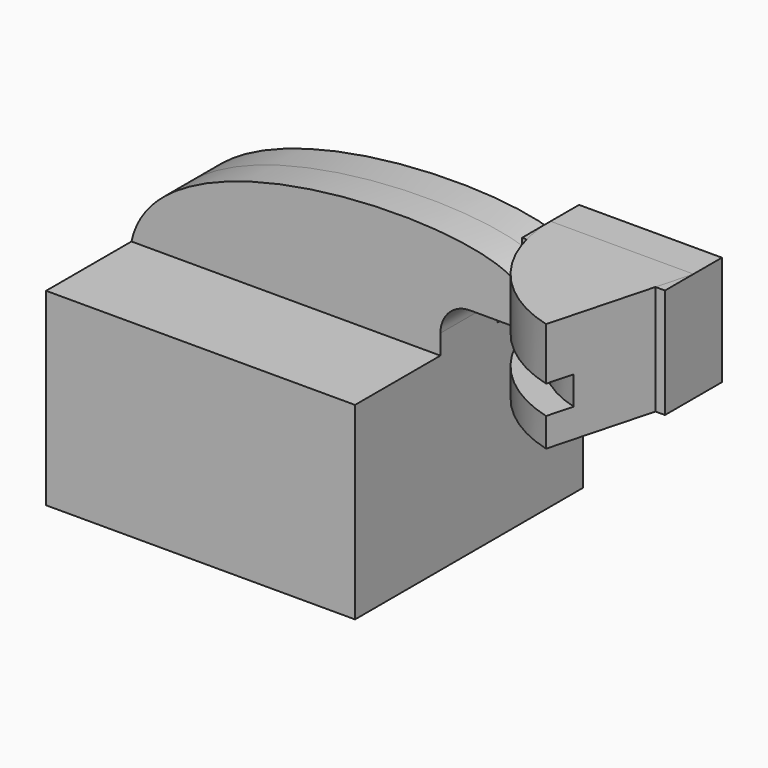
from build123d import *

# Parameters (mm, degrees)
F1_DEPTH = 50.8
F2_DEPTH = 12.7
F3_ANGLE = 75


with BuildPart() as f1:
    # F0 (on Front) → F1 (new body, symmetric)
    with BuildSketch(Plane.XZ):
        Polygon((44.971988, 33.697547), (-55.131988, 33.697547), (-55.131988, -33.697547), (55.131988, -33.697547), (55.131988, 33.697547), align=None)
    extrude(amount=F1_DEPTH, both=True)

    # F0 (on Front) → F2 (join, symmetric)
    with BuildSketch(Plane.XZ):
        Polygon((84.278196, 80.2169), (84.278196, 61.513367), (93.839183, 61.513367), (93.839183, 51.353367), (84.278196, 51.353367), (84.278196, 41.083422), (135.270059, 41.083422), (135.270059, 80.2169), align=None)
        with BuildLine():
            Line((44.971988, 40.750895), (44.971988, 33.697547))
            Line((44.971988, 33.697547), (55.131988, 33.697547))
            Line((55.131988, 33.697547), (55.131988, 40.750895))
            ThreePointArc((55.131988, 40.750895), (58.23738, 48.247975), (65.73446, 51.353367))
            Line((65.73446, 51.353367), (84.278196, 51.353367))
            Line((84.278196, 51.353367), (84.278196, 61.513367))
            Line((84.278196, 61.513367), (65.73446, 61.513367))
            ThreePointArc((65.73446, 61.513367), (51.053175, 55.43218), (44.971988, 40.750895))
        make_face()
        with BuildLine():
            add(Edge.make_bspline(
                [(-55.131988, 33.697547), (-45.370411, 80.2169), (84.278196, 80.2169), (84.278196, 61.513367)],
                knots=[0, 0, 0, 0, 142.158078, 142.158078, 142.158078, 142.158078], degree=3))
            Line((-55.131988, 33.697547), (44.971988, 33.697547))
            Line((44.971988, 33.697547), (44.971988, 40.750895))
            ThreePointArc((44.971988, 40.750895), (51.053175, 55.43218), (65.73446, 61.513367))
            Line((65.73446, 61.513367), (84.278196, 61.513367))
        make_face()
    extrude(amount=F2_DEPTH, both=True)


with BuildPart() as f3:
    # F0 (on Front) → F3 (revolve)
    with BuildSketch(Plane.XZ):
        Polygon((84.278196, 80.2169), (84.278196, 61.513367), (93.839183, 61.513367), (93.839183, 51.353367), (84.278196, 51.353367), (84.278196, 41.083422), (135.270059, 41.083422), (135.270059, 80.2169), align=None)
    revolve(axis=Axis((135.270059, 0, 60.650161), (0, 0, 1)), revolution_arc=F3_ANGLE)


solid = Compound([f1.part, f3.part])
